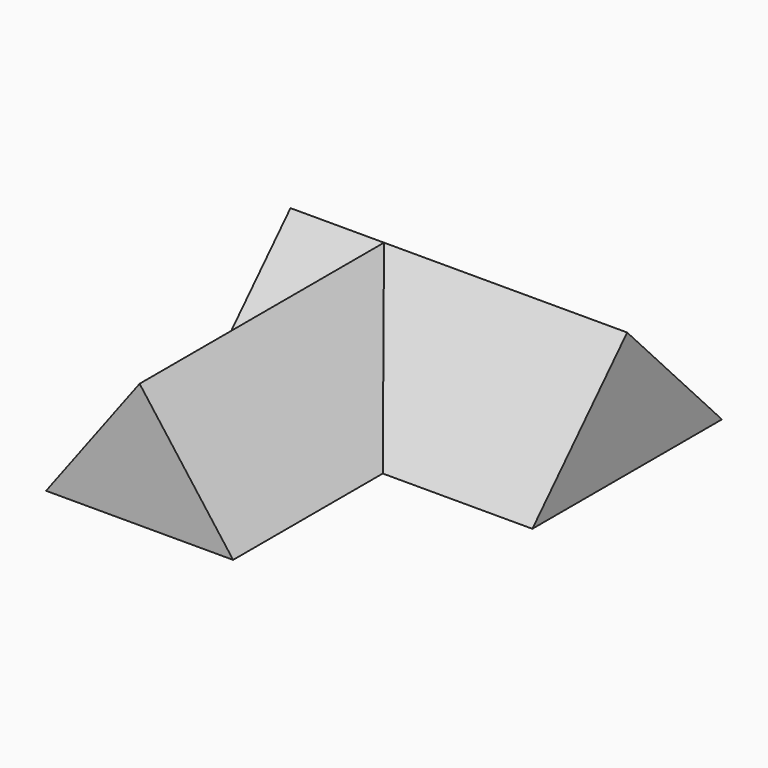
from build123d import *

# Parameters (mm, degrees)
F2_DEPTH      = 381
F2_DEPTH_BACK = 241.3
F4_DEPTH      = 304.8
F4_DEPTH_BACK = 381


with BuildPart() as f2:
    # F1 (on Front) → F2 (new body, two sides)
    with BuildSketch(Plane.XZ) as f2_sk:
        Polygon((-190.5, 254), (-381, 0), (-190.5, 0), align=None)
        Polygon((-190.5, 254), (-190.5, 0), (0, 0), align=None)
    extrude(amount=F2_DEPTH)
    extrude(f2_sk.sketch, amount=-F2_DEPTH_BACK)


with BuildPart() as f4:
    # F3 (on Right) → F4 (new body, two sides)
    with BuildSketch(Plane.YZ) as f4_sk:
        Polygon((241.3, 254), (0, 0), (241.3, 0), align=None)
        Polygon((241.3, 254), (241.3, 0), (482.6, 0), align=None)
    extrude(amount=F4_DEPTH)
    extrude(f4_sk.sketch, amount=-F4_DEPTH_BACK)


solid = Compound([f2.part, f4.part])
